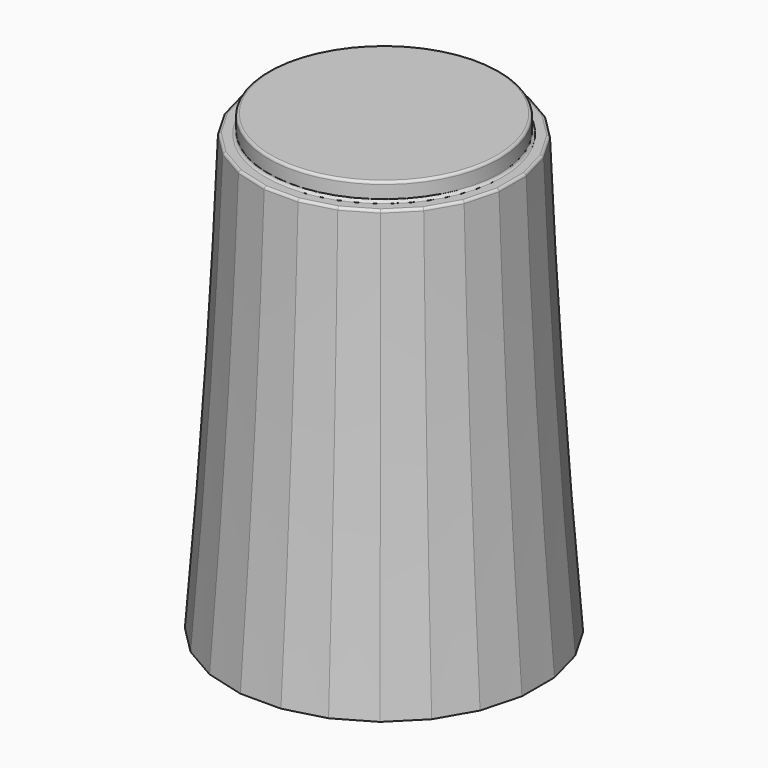
from build123d import *

# Parameters (mm, degrees)
SKETCH365_R     = 4.5
PAD068_DEPTH    = 0.7
SKETCH372_R     = 5
POCKET062_DEPTH = 1
SKETCH366_R     = 4.65
POCKET057_DEPTH = 1
POCKET058_DEPTH = 8
CHAMFER050_SIZE = 1.4
CHAMFER052_SIZE = 0.3
FILLET027_R     = 0.1


with BuildPart() as part:
    # Sketch379 → AdditiveLoft030 section 0
    with BuildSketch(Plane.XY):
        Polygon((-0.789915, 6), (-2.315914, 5.59111), (-3.684086, 4.801195), (-4.801195, 3.684086), (-5.59111, 2.315914), (-6, 0.789915), (-6, -0.789915), (-5.59111, -2.315914), (-4.801195, -3.684086), (-3.684086, -4.801195), (-2.315914, -5.59111), (-0.789915, -6), (0.789915, -6), (2.315914, -5.59111), (3.684086, -4.801195), (4.801195, -3.684086), (5.59111, -2.315914), (6, -0.789915), (6, 0.789915), (5.59111, 2.315914), (4.801195, 3.684086), (3.684086, 4.801195), (2.315914, 5.59111), (0.789915, 6), align=None)
    # Sketch376 → AdditiveLoft030 section 1
    with BuildSketch(Plane.XY.offset(7)):
        Polygon((-0.724089, 5.5), (-2.122921, 5.125184), (-3.377079, 4.401095), (-4.401095, 3.377079), (-5.125184, 2.122921), (-5.5, 0.724089), (-5.5, -0.724089), (-5.125184, -2.122921), (-4.401095, -3.377079), (-3.377079, -4.401095), (-2.122921, -5.125184), (-0.724089, -5.5), (0.724089, -5.5), (2.122921, -5.125184), (3.377079, -4.401095), (4.401095, -3.377079), (5.125184, -2.122921), (5.5, -0.724089), (5.5, 0.724089), (5.125184, 2.122921), (4.401095, 3.377079), (3.377079, 4.401095), (2.122921, 5.125184), (0.724089, 5.5), align=None)
    # Sketch378 → AdditiveLoft030 section 2
    with BuildSketch(Plane.XY.offset(17)):
        Polygon((-4.659258, 1.929928), (-5, 0.658262), (-5, -0.658262), (-4.659258, -1.929928), (-4.000996, -3.070072), (-3.070072, -4.000996), (-1.929928, -4.659258), (-0.658262, -5), (0.658262, -5), (1.929928, -4.659258), (3.070072, -4.000996), (4.000996, -3.070072), (4.659258, -1.929928), (5, -0.658262), (5, 0.658262), (4.659258, 1.929928), (4.000996, 3.070072), (3.070072, 4.000996), (1.929928, 4.659258), (0.658262, 5), (-0.658262, 5), (-1.929928, 4.659258), (-3.070072, 4.000996), (-4.000996, 3.070072), align=None)
    loft()

    # Sketch365 (on Face3 of AdditiveLoft030) → Pad068 (new body)
    with BuildSketch(Plane.XY.offset(17)):
        Circle(SKETCH365_R)
    extrude(amount=PAD068_DEPTH)

    # Sketch372 (on Face1 of Pad068) → Pocket062 (cut)
    with BuildSketch(Plane(origin=(0, 0, 0), x_dir=(1, 0, 0), z_dir=(0, 0, -1))):
        Circle(SKETCH372_R)
    extrude(amount=-POCKET062_DEPTH, mode=Mode.SUBTRACT)

    # Sketch366 (on Face28 of Pocket062) → Pocket057 (cut)
    with BuildSketch(Plane(origin=(0, 0, 1), x_dir=(1, 0, 0), z_dir=(0, 0, -1))):
        Circle(SKETCH366_R)
    extrude(amount=-POCKET057_DEPTH, mode=Mode.SUBTRACT)

    # Sketch367 (on Face32 of Pocket057) → Pocket058 (cut)
    with BuildSketch(Plane(origin=(0, 0, 2), x_dir=(1, 0, 0), z_dir=(0, 0, -1))):
        with BuildLine():
            ThreePointArc((-1.741757, 2.442598), (0, -3), (1.741757, 2.442598))
            Line((-1.741757, 2.442598), (1.741757, 2.442598))
        make_face()
    extrude(amount=-POCKET058_DEPTH, mode=Mode.SUBTRACT)

    # Chamfer050
    chamfer050_edges = [part.edges().sort_by_distance(p)[0] for p in [
        (0, 3, 2),
        (0, -2.442598, 2),
    ]]
    chamfer(chamfer050_edges, length=CHAMFER050_SIZE)

    # Chamfer052
    chamfer052_edges = [part.edges().sort_by_distance(p)[0] for p in [
        (-4.65, 0, 1),
    ]]
    chamfer(chamfer052_edges, length=CHAMFER052_SIZE)

    # Fillet027
    fillet027_edges = [part.edges().sort_by_distance(p)[0] for p in [
        (-4.5, 0, 17.7),
        (-4.829629, 1.294095, 17),
        (-4.330127, 2.5, 17),
        (-5, 0, 17),
        (-3.535534, 3.535534, 17),
        (-4.829629, -1.294095, 17),
        (-2.5, 4.330127, 17),
        (-4.330127, -2.5, 17),
        (-1.294095, 4.829629, 17),
        (-3.535534, -3.535534, 17),
        (0, 5, 17),
        (-2.5, -4.330127, 17),
        (1.294095, 4.829629, 17),
        (-1.294095, -4.829629, 17),
        (2.5, 4.330127, 17),
        (0, -5, 17),
        (3.535534, 3.535534, 17),
        (1.294095, -4.829629, 17),
        (4.330127, 2.5, 17),
        (2.5, -4.330127, 17),
        (4.829629, 1.294095, 17),
        (3.535534, -3.535534, 17),
        (5, 0, 17),
        (4.330127, -2.5, 17),
        (4.829629, -1.294095, 17),
        (-4.5, 0, 17),
    ]]
    fillet(fillet027_edges, radius=FILLET027_R)


solid = part.part
